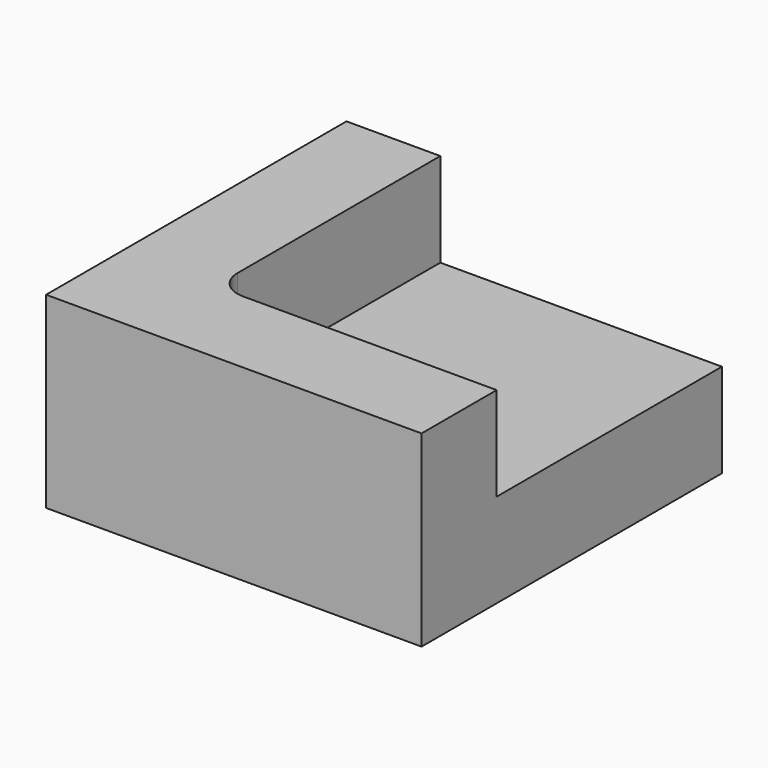
from build123d import *

# Parameters (mm, degrees)
F1_DEPTH = 20
F0_W     = 30
F0_H     = 30
F2_DEPTH = 10
F3_R     = 3


with BuildPart() as f1:
    # F0 (on Top) → F1 (new body)
    with BuildSketch(Plane.XY):
        Polygon((-20, -20), (20, -20), (20, -10), (-10, -10), (-10, 20), (-20, 20), align=None)
    extrude(amount=F1_DEPTH)

    # F0 (on Top) → F2 (join)
    with BuildSketch(Plane.XY):
        with Locations((5, 5)):
            Rectangle(F0_W, F0_H)
    extrude(amount=F2_DEPTH)

    # F3
    f3_edges = [f1.edges().sort_by_distance(p)[0] for p in [
        (-10, -10, 15),
    ]]
    fillet(f3_edges, radius=F3_R)


solid = f1.part
